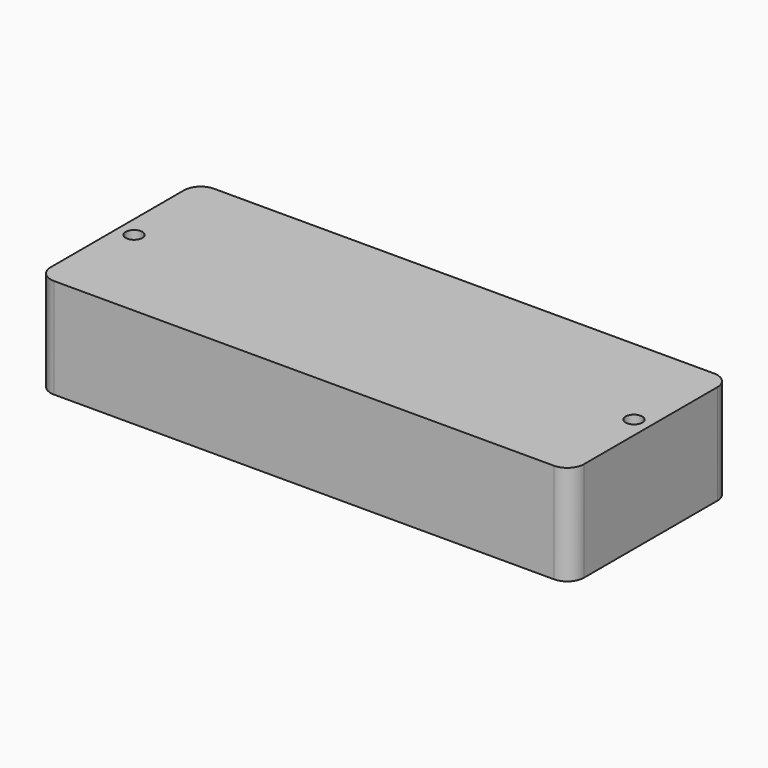
from build123d import *

# Parameters (mm, degrees)
F0_W     = 101.6
F0_H     = 38.1
F1_DEPTH = 19.05
F2_R     = 3.175
F4_D     = 3.175


with BuildPart() as f1:
    # F0 (on Top) → F1 (new body)
    with BuildSketch(Plane.XY):
        Rectangle(F0_W, F0_H)
    extrude(amount=F1_DEPTH)

    # F2
    f2_edges = [f1.edges().sort_by_distance(p)[0] for p in [
        (-50.8, 19.05, 9.525),
        (-50.8, -19.05, 9.525),
        (50.8, 19.05, 9.525),
        (50.8, -19.05, 9.525),
    ]]
    fillet(f2_edges, radius=F2_R)

    # F4 (through all)
    with Locations(Plane.XY.offset(19.05)):
        with Locations((-47.625, 0), (47.625, 0)):
            Hole(F4_D / 2)


solid = f1.part
